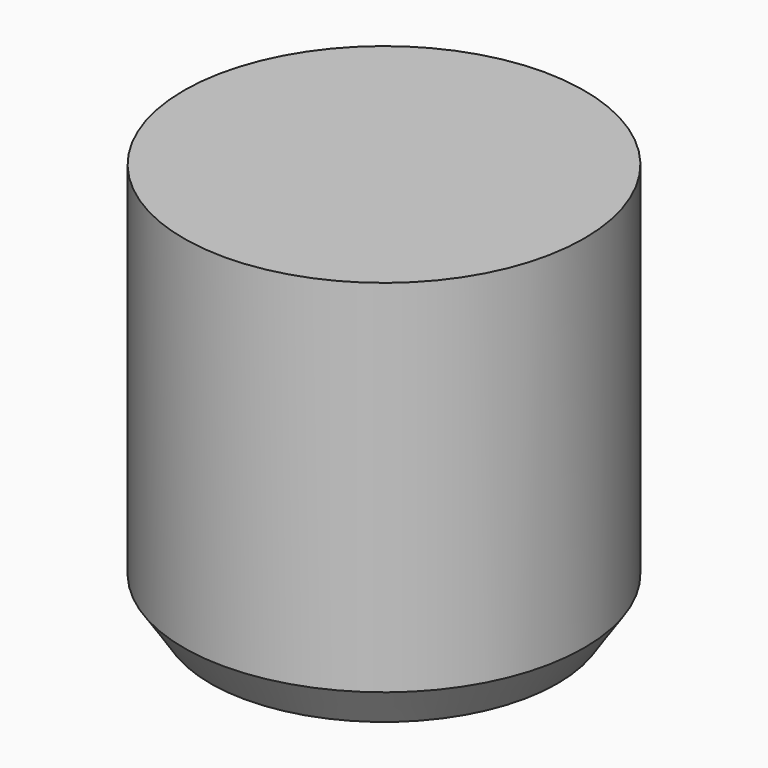
from build123d import *

# Parameters (mm, degrees)
F0_R     = 15
F1_DEPTH = 30
F3_D     = 22.4
F3_DEPTH = 12
F3_TIP   = 6.7296389331
F4_SIZE2 = 2
F4_SIZE  = 3


with BuildPart() as f1:
    # F0 (on Top) → F1 (new body)
    with BuildSketch(Plane.XY):
        Circle(F0_R)
    extrude(amount=F1_DEPTH)

    # F3
    with Locations(Plane(origin=(0, 0, 0), x_dir=(1, 0, 0), z_dir=(0, 0, -1))):
        with Locations((0, 0)):
            Hole(F3_D / 2, depth=F3_DEPTH)
            with Locations((0, 0, -(F3_DEPTH + F3_TIP / 2))):  # 118° drill point
                Cone(0, F3_D / 2, F3_TIP, mode=Mode.SUBTRACT)

    # F4
    f4_edges = [f1.edges().sort_by_distance(p)[0] for p in [
        (-15, 0, 0),
    ]]
    f4_side = f1.faces().sort_by_distance((-15, 0, 15))[0]
    chamfer(f4_edges, length=F4_SIZE, length2=F4_SIZE2, reference=f4_side)


solid = f1.part
